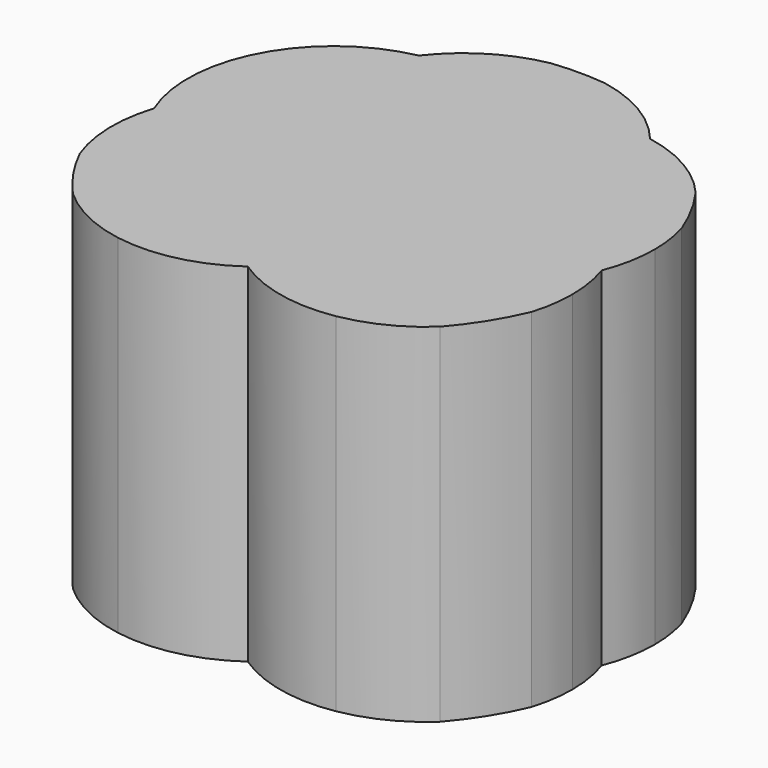
from build123d import *

# Parameters (mm, degrees)
F1_DEPTH = 5


with BuildPart() as f1:
    # F0 (on Top) → F1 (new body)
    with BuildSketch(Plane.XY):
        with BuildLine():
            ThreePointArc((-2.0762917056, 1.1011136345), (-2.0328031028, 1.9427599936), (-1.6619180303, 2.6995321623))
            ThreePointArc((-1.6619180303, 2.6995321623), (-3.094460966, 1.6276524291), (-3.1808633019, -0.159423412))
            ThreePointArc((-3.1808633019, -0.159423412), (-2.759782015, 0.5858157715), (-2.0762917056, 1.1011136345))
        make_face()
        with BuildLine():
            ThreePointArc((-0.0167437519, 2.3493378491), (0.7655920202, 2.7177846989), (1.630068956, 2.739738487))
            ThreePointArc((1.630068956, 2.739738487), (1.0738291564, 3.2204623839), (0.3859787662, 3.4800004745))
            ThreePointArc((0.3859787662, 3.4800004745), (0, 3.5013401592), (-0.3859787662, 3.4800004745))
            ThreePointArc((-0.3859787662, 3.4800004745), (-1.0957887656, 3.2072136818), (-1.6619180303, 2.6995321623))
            ThreePointArc((-1.6619180303, 2.6995321623), (-0.8027377303, 2.6963456411), (-0.0167437519, 2.3493378491))
        make_face()
        with BuildLine():
            ThreePointArc((-0.7665170517, 1.2606372323), (-0.4795280781, 1.8655214743), (-0.0167437519, 2.3493378491))
            ThreePointArc((-0.0167437519, 2.3493378491), (-0.8027377303, 2.6963456411), (-1.6619180303, 2.6995321623))
            ThreePointArc((-1.6619180303, 2.6995321623), (-2.0328031028, 1.9427599936), (-2.0762917056, 1.1011136345))
            ThreePointArc((-2.0762917056, 1.1011136345), (-1.4342585803, 1.2864153522), (-0.7665170517, 1.2606372323))
        make_face()
        with BuildLine():
            ThreePointArc((-0.8417890227, 0.4889120152), (-0.8400800334, 0.8782788449), (-0.7665170517, 1.2606372323))
            ThreePointArc((-0.7665170517, 1.2606372323), (-1.4342585803, 1.2864153522), (-2.0762917056, 1.1011136345))
            ThreePointArc((-2.0762917056, 1.1011136345), (-1.892548263, 0.5056880575), (-1.5421690484, -0.0096057192))
            ThreePointArc((-1.5421690484, -0.0096057192), (-1.2177618831, 0.275876115), (-0.8417890227, 0.4889120152))
        make_face()
        with BuildLine():
            ThreePointArc((-1.5421690484, -0.0096057192), (-1.892548263, 0.5056880575), (-2.0762917056, 1.1011136345))
            ThreePointArc((-2.0762917056, 1.1011136345), (-2.759782015, 0.5858157715), (-3.1808633019, -0.159423412))
            ThreePointArc((-3.1808633019, -0.159423412), (-2.7448394229, -0.8223254079), (-2.0939831205, -1.2761336856))
            ThreePointArc((-2.0939831205, -1.2761336856), (-1.9252075008, -0.5961935731), (-1.5421690484, -0.0096057192))
        make_face()
        with BuildLine():
            ThreePointArc((-3.1808633019, -0.159423412), (-3.2797165139, -0.8504014439), (-3.1466307115, -1.5356100014))
            ThreePointArc((-3.1466307115, -1.5356100014), (-2.900447072, -1.9613234545), (-2.597046909, -2.3483462827))
            ThreePointArc((-2.597046909, -2.3483462827), (-2.1033871479, -2.6844547585), (-1.535075927, -2.8680064501))
            ThreePointArc((-1.535075927, -2.8680064501), (-1.9814217414, -2.1306659953), (-2.0939831205, -1.2761336856))
            ThreePointArc((-2.0939831205, -1.2761336856), (-2.7448394229, -0.8223254079), (-3.1808633019, -0.159423412))
        make_face()
        with BuildLine():
            ThreePointArc((-0.7861340261, -1.4080147657), (-1.4506432117, -1.4470408344), (-2.0939831205, -1.2761336856))
            ThreePointArc((-2.0939831205, -1.2761336856), (-1.9814217414, -2.1306659953), (-1.535075927, -2.8680064501))
            ThreePointArc((-1.535075927, -2.8680064501), (-0.709784023, -2.8447755638), (0.0427708169, -2.5052058157))
            ThreePointArc((0.0427708169, -2.5052058157), (-0.4640333051, -2.0263800649), (-0.7861340261, -1.4080147657))
        make_face()
        with BuildLine():
            ThreePointArc((-0.8715740706, -0.4948146209), (-1.2310141675, -0.2855770594), (-1.5421690484, -0.0096057192))
            ThreePointArc((-1.5421690484, -0.0096057192), (-1.9252075008, -0.5961935731), (-2.0939831205, -1.2761336856))
            ThreePointArc((-2.0939831205, -1.2761336856), (-1.4506432117, -1.4470408344), (-0.7861340261, -1.4080147657))
            ThreePointArc((-0.7861340261, -1.4080147657), (-0.8793187986, -0.9561362328), (-0.8715740706, -0.4948146209))
        make_face()
        with BuildLine():
            ThreePointArc((-0.742059757, 0.009818867), (-0.8059274631, 0.2464505253), (-0.8417890227, 0.4889120152))
            ThreePointArc((-0.8417890227, 0.4889120152), (-1.2177618831, 0.275876115), (-1.5421690484, -0.0096057192))
            ThreePointArc((-1.5421690484, -0.0096057192), (-1.2310141675, -0.2855770594), (-0.8715740706, -0.4948146209))
            ThreePointArc((-0.8715740706, -0.4948146209), (-0.8225268781, -0.2384659106), (-0.742059757, 0.009818867))
        make_face()
        with BuildLine():
            ThreePointArc((-0.0115869939, 0.9465134466), (-0.373615573, 1.1406735804), (-0.7665170517, 1.2606372323))
            ThreePointArc((-0.7665170517, 1.2606372323), (-0.8400800334, 0.8782788449), (-0.8417890227, 0.4889120152))
            ThreePointArc((-0.8417890227, 0.4889120152), (-0.6044808447, 0.5761318216), (-0.3584107831, 0.634200667))
            ThreePointArc((-0.3584107831, 0.634200667), (-0.1937021555, 0.8000220473), (-0.0115869939, 0.9465134466))
        make_face()
        with BuildLine():
            ThreePointArc((-0.3800674705, -0.6495439334), (0.0213422754, -0.6841149921), (0.4219664467, -0.6413924512))
            ThreePointArc((0.4219664467, -0.6413924512), (0.6194374425, -0.3336862528), (0.7605458039, 0.0036063931))
            ThreePointArc((0.7605458039, 0.0036063931), (0.5860530482, 0.3374976169), (0.3547100125, 0.6348382816))
            ThreePointArc((0.3547100125, 0.6348382816), (-0.0018776485, 0.6650111676), (-0.3584107831, 0.634200667))
            ThreePointArc((-0.3584107831, 0.634200667), (-0.5776818213, 0.3388741939), (-0.742059757, 0.009818867))
            ThreePointArc((-0.742059757, 0.009818867), (-0.590826214, -0.336202296), (-0.3800674705, -0.6495439334))
        make_face()
        with BuildLine():
            ThreePointArc((0.8600484164, 0.6423631567), (0.8343116475, 0.9701314411), (0.75773218, 1.2898657287))
            ThreePointArc((0.75773218, 1.2898657287), (0.3556778901, 1.1571643643), (-0.0115869939, 0.9465134466))
            ThreePointArc((-0.0115869939, 0.9465134466), (0.1805136214, 0.801196856), (0.3547100125, 0.6348382816))
            ThreePointArc((0.3547100125, 0.6348382816), (0.6090888134, 0.5747410478), (0.854031537, 0.4835088493))
            ThreePointArc((0.854031537, 0.4835088493), (0.8585436575, 0.5628790485), (0.8600484164, 0.6423631567))
        make_face()
        with BuildLine():
            ThreePointArc((0.75773218, 1.2898657287), (0.4553820003, 1.8816549058), (-0.0167437519, 2.3493378491))
            ThreePointArc((-0.0167437519, 2.3493378491), (-0.4795280781, 1.8655214743), (-0.7665170517, 1.2606372323))
            ThreePointArc((-0.7665170517, 1.2606372323), (-0.373615573, 1.1406735804), (-0.0115869939, 0.9465134466))
            ThreePointArc((-0.0115869939, 0.9465134466), (0.3556778901, 1.1571643643), (0.75773218, 1.2898657287))
        make_face()
        with BuildLine():
            ThreePointArc((2.0831238081, 1.1500789817), (2.0957767053, 1.2826600585), (2.1, 1.4157765545))
            ThreePointArc((2.1, 1.4157765545), (1.9790331993, 2.1182205709), (1.630068956, 2.739738487))
            ThreePointArc((1.630068956, 2.739738487), (0.7655920202, 2.7177846989), (-0.0167437519, 2.3493378491))
            ThreePointArc((-0.0167437519, 2.3493378491), (0.4553820003, 1.8816549058), (0.75773218, 1.2898657287))
            ThreePointArc((0.75773218, 1.2898657287), (1.4318114221, 1.3279046206), (2.0831238081, 1.1500789817))
        make_face()
        with BuildLine():
            ThreePointArc((1.630068956, 2.739738487), (1.9790331993, 2.1182205709), (2.1, 1.4157765545))
            ThreePointArc((2.1, 1.4157765545), (2.0957767053, 1.2826600585), (2.0831238081, 1.1500789817))
            ThreePointArc((2.0831238081, 1.1500789817), (2.7730316761, 0.6436865656), (3.2036109799, -0.0959130616))
            ThreePointArc((3.2036109799, -0.0959130616), (3.3130792758, 0.2823592908), (3.3500014855, 0.6744179991))
            ThreePointArc((3.3500014855, 0.6744179991), (3.3290235807, 0.9705043508), (3.2665089829, 1.2606752061))
            ThreePointArc((3.2665089829, 1.2606752061), (3.0814485688, 1.6625455268), (2.8471862771, 2.0378697735))
            ThreePointArc((2.8471862771, 2.0378697735), (2.2990660925, 2.4936110758), (1.630068956, 2.739738487))
        make_face()
        with BuildLine():
            ThreePointArc((3.3115497375, -0.7605121937), (3.2843894092, -0.4238585208), (3.2036109799, -0.0959130616))
            ThreePointArc((3.2036109799, -0.0959130616), (2.7620344039, -0.7828933792), (2.0917905081, -1.249482009))
            ThreePointArc((2.0917905081, -1.249482009), (2.0979466231, -1.3421442185), (2.1, -1.434987993))
            ThreePointArc((2.1, -1.434987993), (1.9630228085, -2.1810050527), (1.5699605206, -2.8297008536))
            ThreePointArc((1.5699605206, -2.8297008536), (2.1437468532, -2.6422689626), (2.6405135235, -2.2993632256))
            ThreePointArc((2.6405135235, -2.2993632256), (2.9655016033, -1.8615002421), (3.2185638821, -1.3784881021))
            ThreePointArc((3.2185638821, -1.3784881021), (3.2881731631, -1.0729784289), (3.3115497375, -0.7605121937))
        make_face()
        with BuildLine():
            ThreePointArc((3.2036109799, -0.0959130616), (2.7730316761, 0.6436865656), (2.0831238081, 1.1500789817))
            ThreePointArc((2.0831238081, 1.1500789817), (1.9031301125, 0.5280289694), (1.5421690484, -0.0096057192))
            ThreePointArc((1.5421690484, -0.0096057192), (1.9198278095, -0.5839526342), (2.0917905081, -1.249482009))
            ThreePointArc((2.0917905081, -1.249482009), (2.7620344039, -0.7828933792), (3.2036109799, -0.0959130616))
        make_face()
        with BuildLine():
            ThreePointArc((2.1, -1.434987993), (2.0979466231, -1.3421442185), (2.0917905081, -1.249482009))
            ThreePointArc((2.0917905081, -1.249482009), (1.4743536, -1.4135633535), (0.8361526227, -1.3843994087))
            ThreePointArc((0.8361526227, -1.3843994087), (0.5336624736, -2.0114842119), (0.0427708169, -2.5052058157))
            ThreePointArc((0.0427708169, -2.5052058157), (0.7750885285, -2.814654743), (1.5699605206, -2.8297008536))
            ThreePointArc((1.5699605206, -2.8297008536), (1.9630228085, -2.1810050527), (2.1, -1.434987993))
        make_face()
        with BuildLine():
            ThreePointArc((0.0427708169, -2.5052058157), (0.5336624736, -2.0114842119), (0.8361526227, -1.3843994087))
            ThreePointArc((0.8361526227, -1.3843994087), (0.4127816939, -1.2514747862), (0.0267936538, -1.0325566933))
            ThreePointArc((0.0267936538, -1.0325566933), (-0.3594254489, -1.2641188722), (-0.7861340261, -1.4080147657))
            ThreePointArc((-0.7861340261, -1.4080147657), (-0.4640333051, -2.0263800649), (0.0427708169, -2.5052058157))
        make_face()
        with BuildLine():
            ThreePointArc((0.0267936538, -1.0325566933), (-0.1894330564, -0.8546432161), (-0.3800674705, -0.6495439334))
            ThreePointArc((-0.3800674705, -0.6495439334), (-0.6305845914, -0.5873118293), (-0.8715740706, -0.4948146209))
            ThreePointArc((-0.8715740706, -0.4948146209), (-0.8793187986, -0.9561362328), (-0.7861340261, -1.4080147657))
            ThreePointArc((-0.7861340261, -1.4080147657), (-0.3594254489, -1.2641188722), (0.0267936538, -1.0325566933))
        make_face()
        with BuildLine():
            ThreePointArc((0.9196340855, -0.7981801755), (0.9136986239, -0.6404027718), (0.8959257911, -0.4835172555))
            ThreePointArc((0.8959257911, -0.4835172555), (0.6636573905, -0.576598628), (0.4219664467, -0.6413924512))
            ThreePointArc((0.4219664467, -0.6413924512), (0.2373836864, -0.8501114663), (0.0267936538, -1.0325566933))
            ThreePointArc((0.0267936538, -1.0325566933), (0.4127816939, -1.2514747862), (0.8361526227, -1.3843994087))
            ThreePointArc((0.8361526227, -1.3843994087), (0.8986589685, -1.0942469518), (0.9196340855, -0.7981801755))
        make_face()
        with BuildLine():
            ThreePointArc((2.0917905081, -1.249482009), (1.9198278095, -0.5839526342), (1.5421690484, -0.0096057192))
            ThreePointArc((1.5421690484, -0.0096057192), (1.2418633772, -0.2776741688), (0.8959257911, -0.4835172555))
            ThreePointArc((0.8959257911, -0.4835172555), (0.9136986239, -0.6404027718), (0.9196340855, -0.7981801755))
            ThreePointArc((0.9196340855, -0.7981801755), (0.8986589685, -1.0942469518), (0.8361526227, -1.3843994087))
            ThreePointArc((0.8361526227, -1.3843994087), (1.4743536, -1.4135633535), (2.0917905081, -1.249482009))
        make_face()
        with BuildLine():
            ThreePointArc((0.8959257911, -0.4835172555), (1.2418633772, -0.2776741688), (1.5421690484, -0.0096057192))
            ThreePointArc((1.5421690484, -0.0096057192), (1.2232067714, 0.2719874592), (0.854031537, 0.4835088493))
            ThreePointArc((0.854031537, 0.4835088493), (0.8213027068, 0.2408276655), (0.7605458039, 0.0036063931))
            ThreePointArc((0.7605458039, 0.0036063931), (0.8429489892, -0.2358663837), (0.8959257911, -0.4835172555))
        make_face()
        with BuildLine():
            ThreePointArc((1.5421690484, -0.0096057192), (1.9031301125, 0.5280289694), (2.0831238081, 1.1500789817))
            ThreePointArc((2.0831238081, 1.1500789817), (1.4318114221, 1.3279046206), (0.75773218, 1.2898657287))
            ThreePointArc((0.75773218, 1.2898657287), (0.8343116475, 0.9701314411), (0.8600484164, 0.6423631567))
            ThreePointArc((0.8600484164, 0.6423631567), (0.8585436575, 0.5628790485), (0.854031537, 0.4835088493))
            ThreePointArc((0.854031537, 0.4835088493), (1.2232067714, 0.2719874592), (1.5421690484, -0.0096057192))
        make_face()
        with BuildLine():
            ThreePointArc((0.0267936538, -1.0325566933), (0.2373836864, -0.8501114663), (0.4219664467, -0.6413924512))
            ThreePointArc((0.4219664467, -0.6413924512), (0.0213422754, -0.6841149921), (-0.3800674705, -0.6495439334))
            ThreePointArc((-0.3800674705, -0.6495439334), (-0.1894330564, -0.8546432161), (0.0267936538, -1.0325566933))
        make_face()
        with BuildLine():
            ThreePointArc((-0.3800674705, -0.6495439334), (-0.590826214, -0.336202296), (-0.742059757, 0.009818867))
            ThreePointArc((-0.742059757, 0.009818867), (-0.8225268781, -0.2384659106), (-0.8715740706, -0.4948146209))
            ThreePointArc((-0.8715740706, -0.4948146209), (-0.6305845914, -0.5873118293), (-0.3800674705, -0.6495439334))
        make_face()
        with BuildLine():
            ThreePointArc((-0.3584107831, 0.634200667), (-0.6044808447, 0.5761318216), (-0.8417890227, 0.4889120152))
            ThreePointArc((-0.8417890227, 0.4889120152), (-0.8059274631, 0.2464505253), (-0.742059757, 0.009818867))
            ThreePointArc((-0.742059757, 0.009818867), (-0.5776818213, 0.3388741939), (-0.3584107831, 0.634200667))
        make_face()
        with BuildLine():
            ThreePointArc((0.3547100125, 0.6348382816), (0.1805136214, 0.801196856), (-0.0115869939, 0.9465134466))
            ThreePointArc((-0.0115869939, 0.9465134466), (-0.1937021555, 0.8000220473), (-0.3584107831, 0.634200667))
            ThreePointArc((-0.3584107831, 0.634200667), (-0.0018776485, 0.6650111676), (0.3547100125, 0.6348382816))
        make_face()
        with BuildLine():
            ThreePointArc((0.7605458039, 0.0036063931), (0.8213027068, 0.2408276655), (0.854031537, 0.4835088493))
            ThreePointArc((0.854031537, 0.4835088493), (0.6090888134, 0.5747410478), (0.3547100125, 0.6348382816))
            ThreePointArc((0.3547100125, 0.6348382816), (0.5860530482, 0.3374976169), (0.7605458039, 0.0036063931))
        make_face()
        with BuildLine():
            ThreePointArc((0.4219664467, -0.6413924512), (0.6636573905, -0.576598628), (0.8959257911, -0.4835172555))
            ThreePointArc((0.8959257911, -0.4835172555), (0.8429489892, -0.2358663837), (0.7605458039, 0.0036063931))
            ThreePointArc((0.7605458039, 0.0036063931), (0.6194374425, -0.3336862528), (0.4219664467, -0.6413924512))
        make_face()
    extrude(amount=F1_DEPTH)


solid = f1.part
